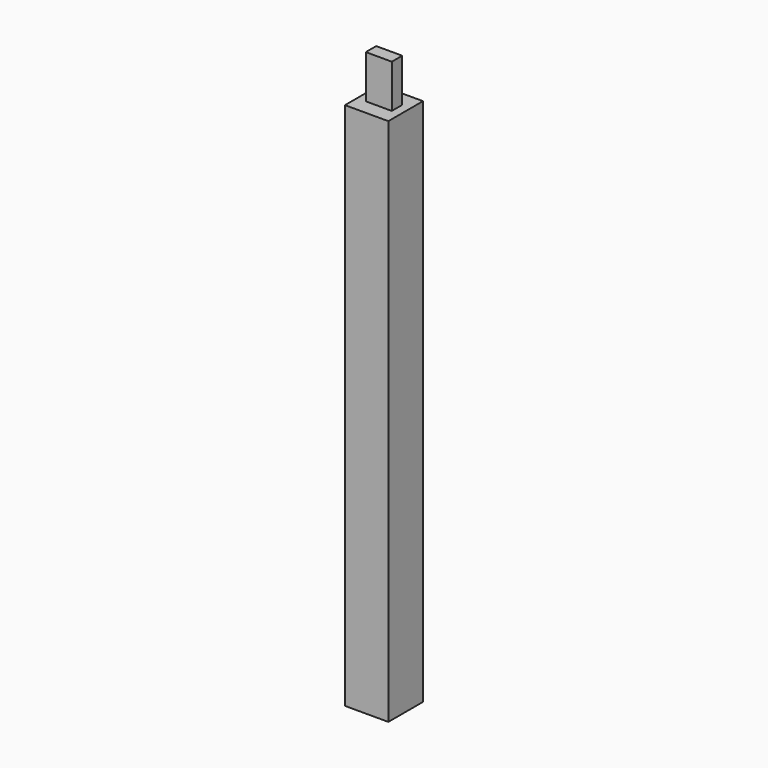
from build123d import *

# Parameters (mm, degrees)
F0_W     = 200
F0_H     = 200
F1_DEPTH = 2640
F2_W     = 200
F2_H     = 200
F2_W_2   = 120
F2_H_2   = 60
F3_DEPTH = 200


with BuildPart() as f1:
    # F0 (on Top) → F1 (new body)
    with BuildSketch(Plane.XY):
        with Locations((100, 100)):
            Rectangle(F0_W, F0_H)
    extrude(amount=F1_DEPTH)

    # F2 (on face) → F3 (cut)
    with BuildSketch(Plane.XY.offset(2640)):
        with Locations((100, 100)):
            Rectangle(F2_W, F2_H)
        with Locations((100, 100)):
            Rectangle(F2_W_2, F2_H_2, mode=Mode.SUBTRACT)
    extrude(amount=-F3_DEPTH, mode=Mode.SUBTRACT)


solid = f1.part
